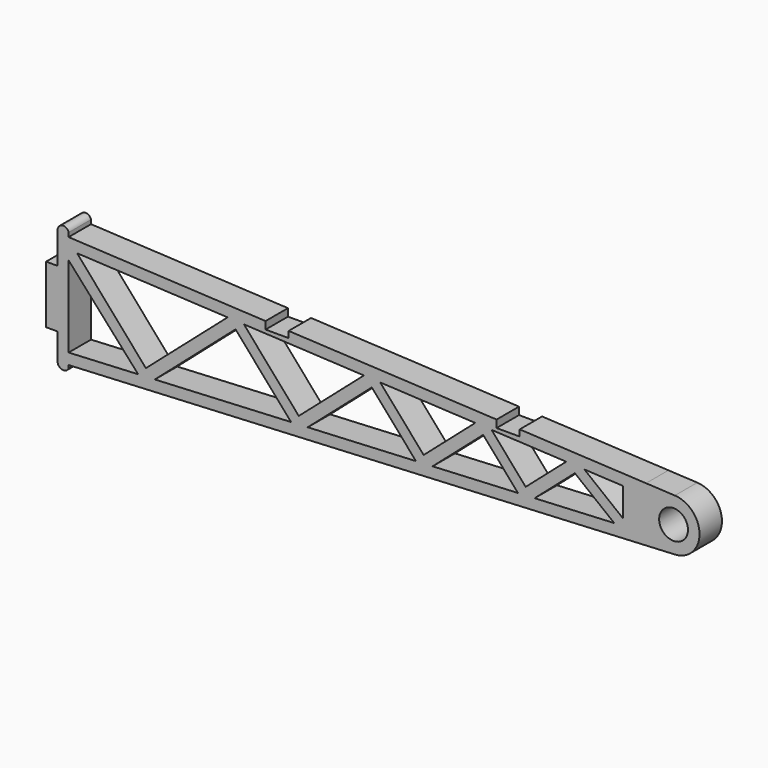
from build123d import *

# Parameters (mm, degrees)
F0_R     = 2.5
F1_DEPTH = 4.85
F4_DEPTH = 3
F6_DEPTH = 5


with BuildPart() as f1:
    # F0 (on Front) → F1 (new body)
    with BuildSketch(Plane.XZ):
        with BuildLine():
            Line((0, 10.100125), (0, 5))
            Line((0, 5), (-2, 5))
            Line((-2, 5), (-2, -5))
            Line((-2, -5), (0, -5))
            Line((0, -5), (0, -9.588868))
            ThreePointArc((0, -9.588868), (0.776393, -10.563548), (1.9, -10.024758))
            Line((1.9, -10.024758), (1.9, -9.493749))
            Line((1.9, -9.493749), (101.874922, -4.488743))
            Line((101.874922, -4.488743), (106.868668, -4.238743))
            ThreePointArc((106.868668, -4.238743), (111.143668, 0.255629), (106.868668, 4.75))
            Line((106.868668, 4.75), (101.874922, 5))
            Line((101.874922, 5), (1.9, 10.005006))
            Line((1.9, 10.005006), (1.9, 10.71228))
            ThreePointArc((1.9, 10.71228), (0.845568, 11.433139), (0, 10.47581))
            Line((0, 10.47581), (0, 10.100125))
        make_face()
        Polygon((13.94009, -6.988611), (1.9, -7.59137), (1.9, 0.047531), (1.9, 6.476616), align=None, mode=Mode.SUBTRACT)
        Polygon((40.412243, -5.663346), (16.82521, -6.844175), (30.799962, 5.351317), align=None, mode=Mode.SUBTRACT)
        Polygon((43.297363, -5.518909), (54.399668, 4.169854), (62.036187, -4.580795), align=None, mode=Mode.SUBTRACT)
        Polygon((64.921308, -4.436358), (73.677236, 3.204768), (79.699843, -3.696506), align=None, mode=Mode.SUBTRACT)
        Polygon((89.5515, 2.52749), (96.364107, -2.862249), (82.584964, -3.552069), align=None, mode=Mode.SUBTRACT)
        with Locations((106.643668, 0.255629)):
            Circle(F0_R, mode=Mode.SUBTRACT)
        Polygon((15.278104, -5.623766), (3.363279, 8.029371), (29.427927, 6.724507), align=None, mode=Mode.SUBTRACT)
        Polygon((41.750257, -4.298501), (32.254169, 6.583018), (53.027633, 5.543044), align=None, mode=Mode.SUBTRACT)
        Polygon((72.305201, 4.577958), (63.374202, -3.21595), (55.853875, 5.401555), align=None, mode=Mode.SUBTRACT)
        Polygon((88.052204, 3.789622), (81.037857, -2.331661), (75.131443, 4.436469), align=None, mode=Mode.SUBTRACT)
        Polygon((91.211182, 3.631475), (97.850325, 3.299102), (97.850325, -1.621029), align=None, mode=Mode.SUBTRACT)
    extrude(amount=F1_DEPTH)

    # F3 (on offset) → F4 (cut)
    with BuildSketch(Plane.XY.offset(10)):
        Polygon((36, 0), (36, -2.5), (36, -5), (40, -5), (40, -2.5), (40, 0), align=None)
        Polygon((76, 0), (76, -2.5), (76, -5), (80, -5), (80, -2.5), (80, 0), align=None)
    extrude(amount=-F4_DEPTH, mode=Mode.SUBTRACT)

    # F5 (on offset) → F6 (cut)
    with BuildSketch(Plane.XY.offset(10)):
        Polygon((76, 0), (76, -2.5), (76, -5), (80, -5), (80, -2.5), (80, 0), align=None)
    extrude(amount=-F6_DEPTH, mode=Mode.SUBTRACT)


solid = f1.part
